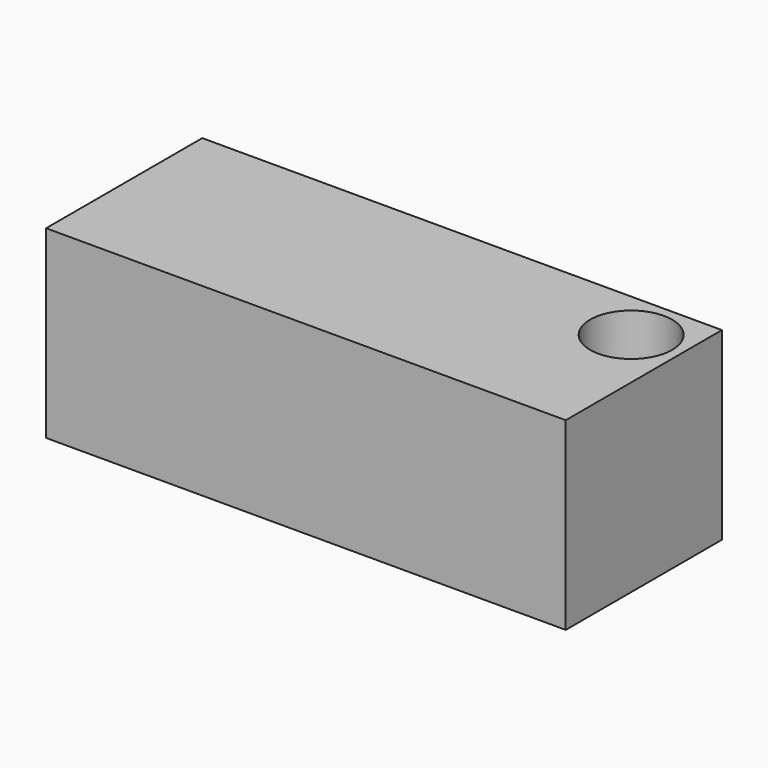
from build123d import *

# Parameters (mm, degrees)
F1_W     = 7600
F1_H     = 2855
F1_R     = 600
F2_DEPTH = 2700


with BuildPart() as f2:
    # F1 (on face) → F2 (new body)
    with BuildSketch(Plane.XY):
        Rectangle(F1_W, F1_H)
        with Locations((3063.212872, 689.223051)):
            Circle(F1_R, mode=Mode.SUBTRACT)
    extrude(amount=F2_DEPTH)


solid = f2.part
